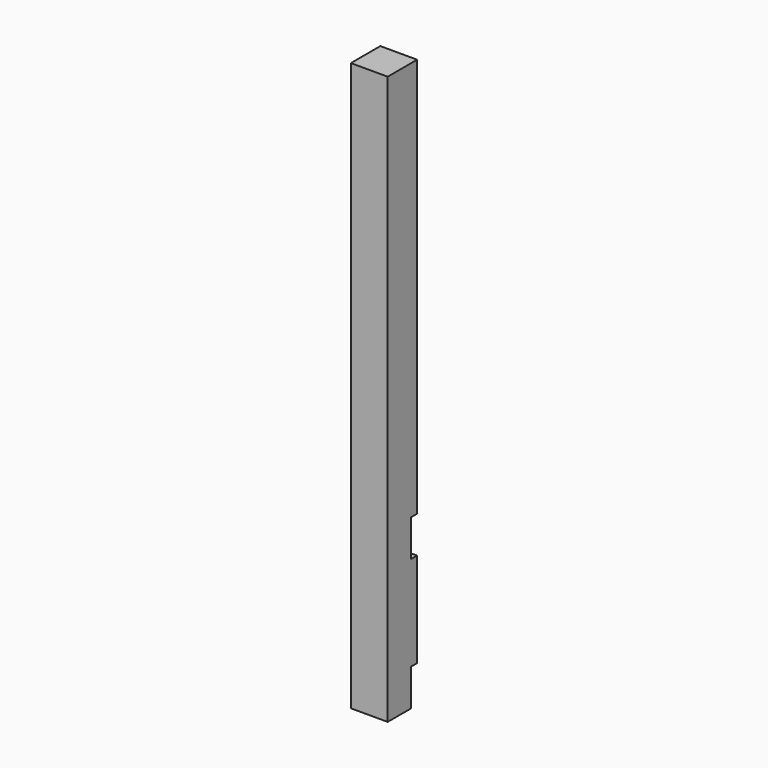
from build123d import *

# Parameters (mm, degrees)
F0_W     = 88.9
F0_H     = 88.9
F1_DEPTH = 1371.6
F2_W     = 19.05
F2_H     = 88.9
F3_DEPTH = 88.9


with BuildPart() as f1:
    # F0 (on Top) → F1 (new body)
    with BuildSketch(Plane.XY):
        Rectangle(F0_W, F0_H)
    extrude(amount=F1_DEPTH)

    # F2 (on face) → F3 (cut, through all)
    with BuildSketch(Plane.YZ.offset(44.45)):
        with Locations((34.925, 361.95)):
            Rectangle(F2_W, F2_H)
        with Locations((34.925, 44.45)):
            Rectangle(F2_W, F2_H)
    extrude(amount=-F3_DEPTH, mode=Mode.SUBTRACT)


solid = f1.part
